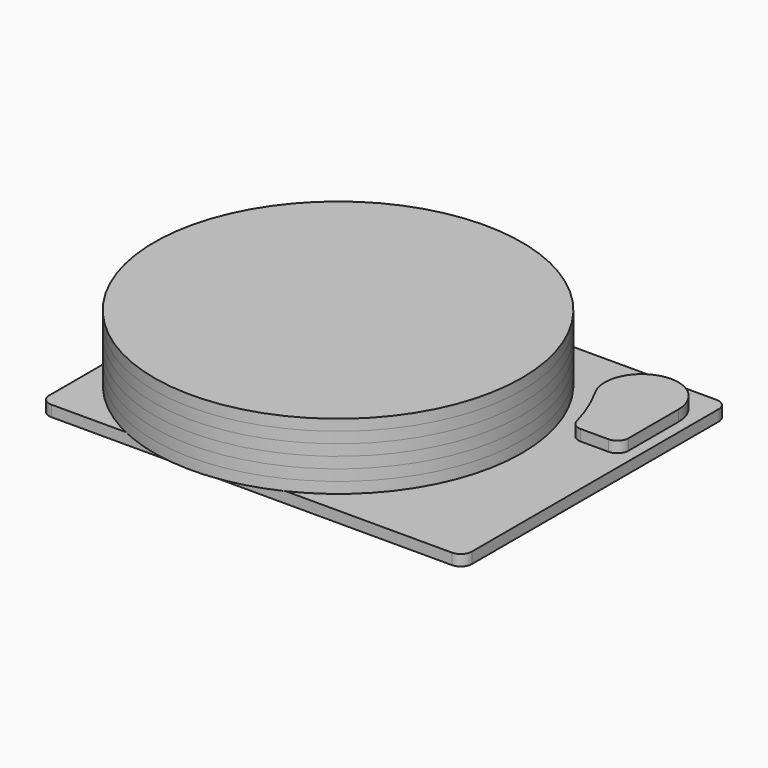
from build123d import *

# Parameters (mm, degrees)
SKETCH_R     = 50
PAD_DEPTH    = 3
SKETCH005_R  = 50
PAD004_DEPTH = 3
SKETCH006_R  = 50
PAD005_DEPTH = 3
SKETCH007_R  = 50
PAD006_DEPTH = 3
SKETCH008_R  = 50
PAD007_DEPTH = 3
SKETCH009_R  = 50
PAD008_DEPTH = 3
SKETCH010_W  = 115
SKETCH010_H  = 90
PAD009_DEPTH = 3
PAD010_DEPTH = 3
FILLET_R     = 3


with BuildPart() as coaster:
    # Sketch → Pad (new body)
    with BuildSketch(Plane.XY):
        Circle(SKETCH_R)
    extrude(amount=PAD_DEPTH)


with BuildPart() as coaster_1:
    # Body placement: moved
    add(coaster.part.moved(Location((0, 0, 3))))


with BuildPart() as coaster001:
    # Sketch005 → Pad004 (new body)
    with BuildSketch(Plane.XY):
        Circle(SKETCH005_R)
    extrude(amount=PAD004_DEPTH)


with BuildPart() as coaster001_1:
    # Body002 placement: moved
    add(coaster001.part.moved(Location((0, 0, 6))))


with BuildPart() as coaster002:
    # Sketch006 → Pad005 (new body)
    with BuildSketch(Plane.XY):
        Circle(SKETCH006_R)
    extrude(amount=PAD005_DEPTH)


with BuildPart() as coaster002_1:
    # Body003 placement: moved
    add(coaster002.part.moved(Location((0, 0, 9))))


with BuildPart() as coaster003:
    # Sketch007 → Pad006 (new body)
    with BuildSketch(Plane.XY):
        Circle(SKETCH007_R)
    extrude(amount=PAD006_DEPTH)


with BuildPart() as coaster003_1:
    # Body004 placement: moved
    add(coaster003.part.moved(Location((0, 0, 12))))


with BuildPart() as coaster004:
    # Sketch008 → Pad007 (new body)
    with BuildSketch(Plane.XY):
        Circle(SKETCH008_R)
    extrude(amount=PAD007_DEPTH)


with BuildPart() as coaster004_1:
    # Body005 placement: moved
    add(coaster004.part.moved(Location((0, 0, 15))))


with BuildPart() as coaster005:
    # Sketch009 → Pad008 (new body)
    with BuildSketch(Plane.XY):
        Circle(SKETCH009_R)
    extrude(amount=PAD008_DEPTH)


with BuildPart() as coaster005_1:
    # Body006 placement: moved
    add(coaster005.part.moved(Location((0, 0, 18))))


with BuildPart() as player:
    # Sketch010 → Pad009 (new body)
    with BuildSketch(Plane.XY):
        with Locations((12.5, 0)):
            Rectangle(SKETCH010_W, SKETCH010_H)
    extrude(amount=PAD009_DEPTH)

    # Sketch011 (on Face6 of Pad009) → Pad010 (join)
    with BuildSketch(Plane.XY.offset(3)):
        with BuildLine():
            ThreePointArc((67, 32), (54.470018, 41.674667), (48.280162, 27.104652))
            ThreePointArc((54.052162, 12), (51.720535, 19.764171), (48.280162, 27.104652))
            Line((67, 12), (54.052162, 12))
            Line((67, 32), (67, 12))
        make_face()
    extrude(amount=PAD010_DEPTH)

    # Fillet
    fillet_edges = [player.edges().sort_by_distance(p)[0] for p in [
        (70, -45, 1.5),
        (-45, -45, 1.5),
        (-45, 45, 1.5),
        (70, 45, 1.5),
        (67, 12, 4.5),
        (54.052162, 12, 4.5),
    ]]
    fillet(fillet_edges, radius=FILLET_R)


solid = Compound([coaster_1.part, coaster001_1.part, coaster002_1.part, coaster003_1.part, coaster004_1.part, coaster005_1.part, player.part])
